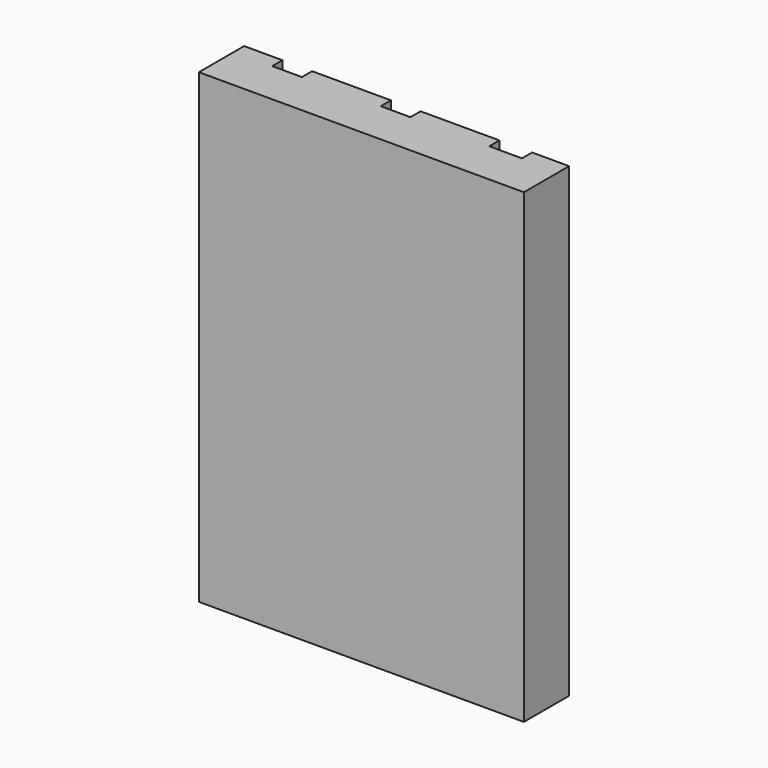
from build123d import *

# Parameters (mm, degrees)
F0_W     = 58.42
F0_H     = 83.82
F1_DEPTH = 10.16
F2_W     = 5.334
F2_H     = 83.82
F2_W_2   = 5.875307
F3_DEPTH = 2.286


with BuildPart() as f1:
    # F0 (on Front) → F1 (new body)
    with BuildSketch(Plane.XZ):
        with Locations((29.21, 41.91)):
            Rectangle(F0_W, F0_H)
    extrude(amount=F1_DEPTH)

    # F2 (on Front) → F3 (cut)
    with BuildSketch(Plane.XZ):
        with Locations((9.552974, 41.91)):
            Rectangle(F2_W, F2_H)
        with Locations((29.057426, 41.91)):
            Rectangle(F2_W, F2_H)
        with Locations((48.835279, 41.91)):
            Rectangle(F2_W_2, F2_H)
    extrude(amount=F3_DEPTH, mode=Mode.SUBTRACT)


solid = f1.part
